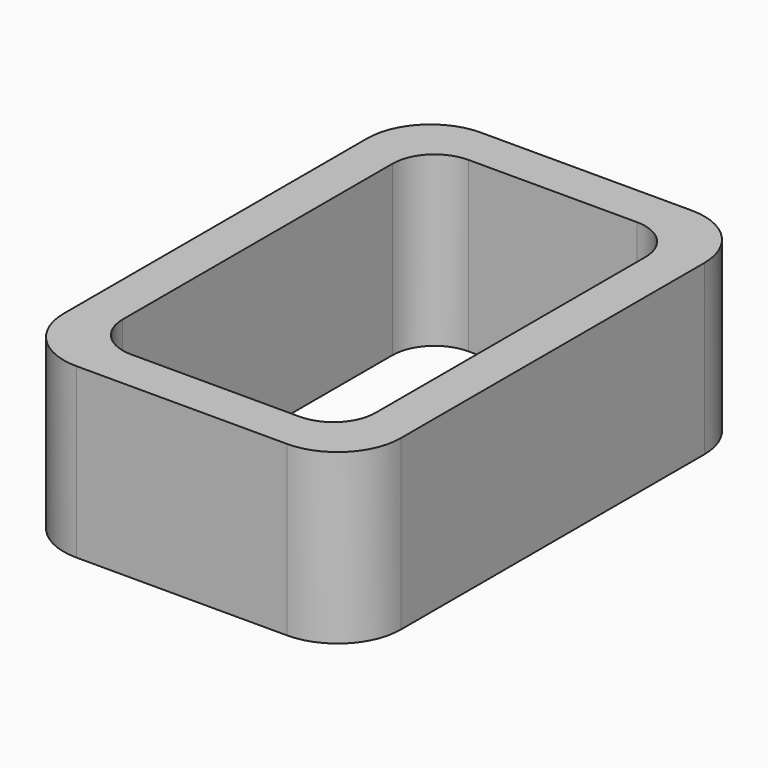
from build123d import *

# Parameters (mm, degrees)
EXTRUDE_DEPTH = 50


with BuildPart() as part:
    # Sketch → Extrude (new body)
    with BuildSketch(Plane.XY):
        with BuildLine():
            Line((-31.25, 75), (31.25, 75))
            ThreePointArc((50, 56.25), (44.508252, 69.508252), (31.25, 75))
            Line((50, 56.25), (50, -56.25))
            ThreePointArc((31.25, -75), (44.508252, -69.508252), (50, -56.25))
            Line((31.25, -75), (-31.25, -75))
            ThreePointArc((-50, -56.25), (-44.508252, -69.508252), (-31.25, -75))
            Line((-50, -56.25), (-50, 56.25))
            ThreePointArc((-31.25, 75), (-44.508252, 69.508252), (-50, 56.25))
        make_face()
        with BuildLine():
            Line((-25, 62.5), (25, 62.5))
            ThreePointArc((37.5, 50), (33.838835, 58.838835), (25, 62.5))
            Line((37.5, 50), (37.5, -50))
            ThreePointArc((25, -62.5), (33.838835, -58.838835), (37.5, -50))
            Line((25, -62.5), (-25, -62.5))
            ThreePointArc((-37.5, -50), (-33.838835, -58.838835), (-25, -62.5))
            Line((-37.5, -50), (-37.5, 50))
            ThreePointArc((-25, 62.5), (-33.838835, 58.838835), (-37.5, 50))
        make_face(mode=Mode.SUBTRACT)
    extrude(amount=EXTRUDE_DEPTH)


solid = part.part
